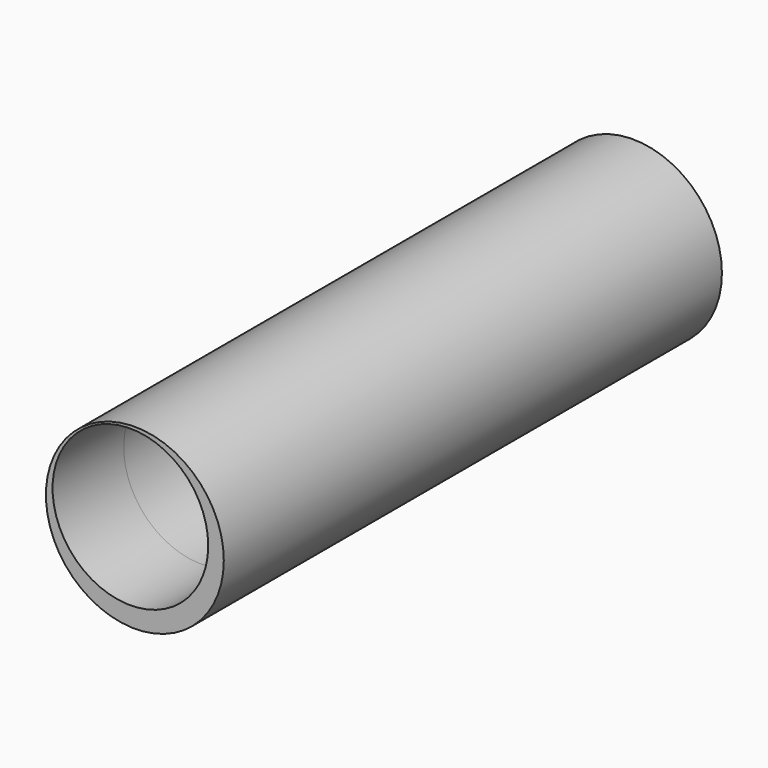
from build123d import *

# Parameters (mm, degrees)
F0_R     = 25.4
F1_DEPTH = 152.4
F2_R     = 22.225
F3_DEPTH = 146.05
F4_DEPTH = 25.4


with BuildPart() as f1:
    # F0 (on Front) → F1 (new body)
    with BuildSketch(Plane.XZ):
        Circle(F0_R)
    extrude(amount=F1_DEPTH)

    # F2 (on face) → F3 (cut)
    with BuildSketch(Plane.XZ.offset(152.4)):
        with Locations((-1.2778061209, 2.3061255924)):
            Circle(F2_R)
    extrude(amount=-F3_DEPTH, mode=Mode.SUBTRACT)

    # F4 (add): faces of the model
    f4_faces = [f1.faces().sort_by_distance(p)[0] for p in [
        (-24.6815795103, -152.4, 0),
        (0, 0, 0),
    ]]
    extrude(f4_faces, amount=F4_DEPTH, dir=(0, -1, 0))


solid = f1.part
